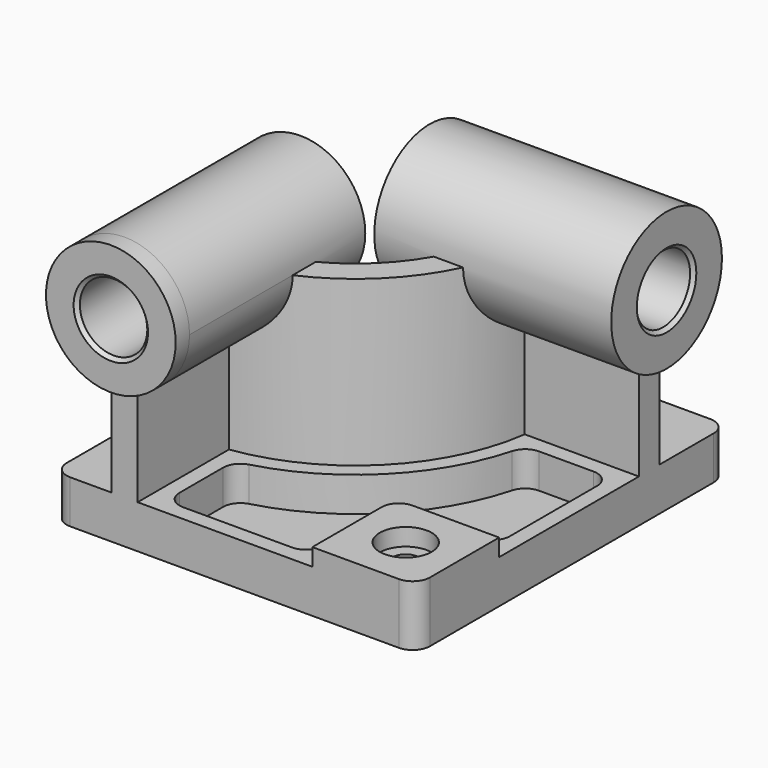
from build123d import *

# Parameters (mm, degrees)
F0_W            = 5334
F0_H            = 5715
F1_DEPTH        = 635
F3_DEPTH        = 2413
F4_R            = 952.5
F5_DEPTH        = 254
F5_DEPTH_BACK   = 3225.8
F6_R            = 1016
F7_DEPTH        = 254
F7_DEPTH_BACK   = 3225.8
F8_W            = 1524
F8_H            = 1524
F9_DEPTH        = 254
F10_R           = 254
F12_DEPTH       = 508
F14_D           = 381
F14_CBORE_D     = 762
F14_CBORE_DEPTH = 254
F15_R           = 254
F16_R           = 495.3
F17_DEPTH       = 5969.001
F18_R           = 495.3
F19_DEPTH       = 5588.001
F20_SIZE        = 50.8
F21_R           = 254


with BuildPart() as f1:
    # F0 (on Top) → F1 (new body)
    with BuildSketch(Plane.XY):
        Rectangle(F0_W, F0_H)
    extrude(amount=F1_DEPTH)

    # F2 (on face) → F3 (join)
    with BuildSketch(Plane.XY.offset(635)):
        with BuildLine():
            Line((-1803.4, -825.5), (-1803.4, -2857.5))
            Line((-1803.4, -2857.5), (-1422.4, -2857.5))
            Line((-1422.4, -2857.5), (-1422.4, -1180.638144))
            ThreePointArc((-1422.4, -1180.638144), (190.216859, -380.716859), (990.138144, 1231.9))
            Line((990.138144, 1231.9), (2667, 1231.9))
            Line((2667, 1231.9), (2667, 1612.9))
            Line((2667, 1612.9), (635, 1612.9))
            ThreePointArc((635, 1612.9), (-79.190825, -111.309175), (-1803.4, -825.5))
        make_face()
    extrude(amount=F3_DEPTH)

    # F4 (on face) → F5 (join, two sides)
    with BuildSketch(Plane.XZ.offset(2857.5)) as f5_sk:
        with Locations((-1612.9, 3048)):
            Circle(F4_R)
    extrude(amount=F5_DEPTH)
    extrude(f5_sk.sketch, amount=-F5_DEPTH_BACK)

    # F6 (on face) → F7 (join, two sides)
    with BuildSketch(Plane.YZ.offset(2667)) as f7_sk:
        with Locations((1422.4, 3048)):
            Circle(F6_R)
    extrude(amount=F7_DEPTH)
    extrude(f7_sk.sketch, amount=-F7_DEPTH_BACK)

    # F8 (on face) → F9 (join)
    with BuildSketch(Plane.XY.offset(635)):
        with Locations((1905, -2095.5)):
            Rectangle(F8_W, F8_H)
    extrude(amount=F9_DEPTH)

    # F10
    f10_edges = [f1.edges().sort_by_distance(p)[0] for p in [
        (1143, -1333.5, 762),
    ]]
    fillet(f10_edges, radius=F10_R)

    # F11 (on face) → F12 (cut)
    with BuildSketch(Plane.XY.offset(635)):
        with BuildLine():
            ThreePointArc((1183.017894, 1003.3), (351.861469, -542.361469), (-1193.8, -1373.517894))
            Line((-1193.8, -1373.517894), (-1193.8, -2628.9))
            Line((-1193.8, -2628.9), (914.4, -2628.9))
            Line((914.4, -2628.9), (914.4, -1587.5))
            ThreePointArc((914.4, -1587.5), (1055.750267, -1246.250267), (1397, -1104.9))
            Line((1397, -1104.9), (2438.4, -1104.9))
            Line((2438.4, -1104.9), (2438.4, 1003.3))
            Line((2438.4, 1003.3), (1183.017894, 1003.3))
        make_face()
    extrude(amount=-F12_DEPTH, mode=Mode.SUBTRACT)

    # F14 (through all)
    with Locations(Plane.XY.offset(889)):
        with Locations((1905, -2095.5)):
            CounterBoreHole(F14_D / 2, F14_CBORE_D / 2, F14_CBORE_DEPTH)

    # F15
    f15_edges = [f1.edges().sort_by_distance(p)[0] for p in [
        (1183.017894, 1003.3, 381),
        (-1193.8, -1373.517894, 381),
        (2438.4, 1003.3, 381),
        (-1193.8, -2628.9, 381),
        (2438.4, -1104.9, 381),
        (914.4, -2628.9, 381),
    ]]
    fillet(f15_edges, radius=F15_R)

    # F16 (on face) → F17 (cut, through all)
    with BuildSketch(Plane.XZ.offset(3111.5)):
        with Locations((-1612.9, 3048)):
            Circle(F16_R)
    extrude(amount=-F17_DEPTH, mode=Mode.SUBTRACT)

    # F18 (on face) → F19 (cut, through all)
    with BuildSketch(Plane.YZ.offset(2921)):
        with Locations((1422.4, 3048)):
            Circle(F18_R)
    extrude(amount=-F19_DEPTH, mode=Mode.SUBTRACT)

    # F20
    f20_edges = [f1.edges().sort_by_distance(p)[0] for p in [
        (2921, 927.1, 3048),
        (-2108.2, -3111.5, 3048),
        (-2108.2, 368.3, 3048),
        (-558.8, 927.1, 3048),
    ]]
    chamfer(f20_edges, length=F20_SIZE)

    # F21
    f21_edges = [f1.edges().sort_by_distance(p)[0] for p in [
        (-2667, -2857.5, 317.5),
        (2667, -2857.5, 444.5),
        (2667, 2857.5, 317.5),
        (-2667, 2857.5, 317.5),
    ]]
    fillet(f21_edges, radius=F21_R)


solid = f1.part
